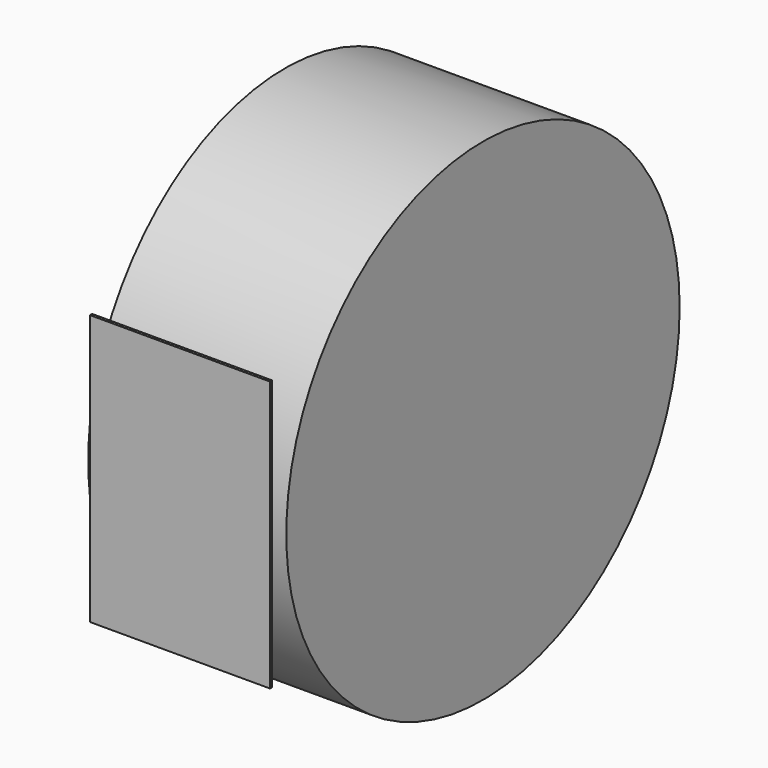
from build123d import *

# Parameters (mm, degrees)
F0_W          = 200
F0_H          = 300
F1_DEPTH      = 3
F2_R          = 273
F3_DEPTH      = 110
F3_DEPTH_BACK = 110


with BuildPart() as f1:
    # F0 (on Front) → F1 (new body)
    with BuildSketch(Plane.XZ):
        Rectangle(F0_W, F0_H)
    extrude(amount=F1_DEPTH)


with BuildPart() as f3:
    # F2 (on Right) → F3 (new body, two sides)
    with BuildSketch(Plane.YZ) as f3_sk:
        with Locations((280, 0)):
            Circle(F2_R)
    extrude(amount=F3_DEPTH)
    extrude(f3_sk.sketch, amount=-F3_DEPTH_BACK)


solid = Compound([f1.part, f3.part])
